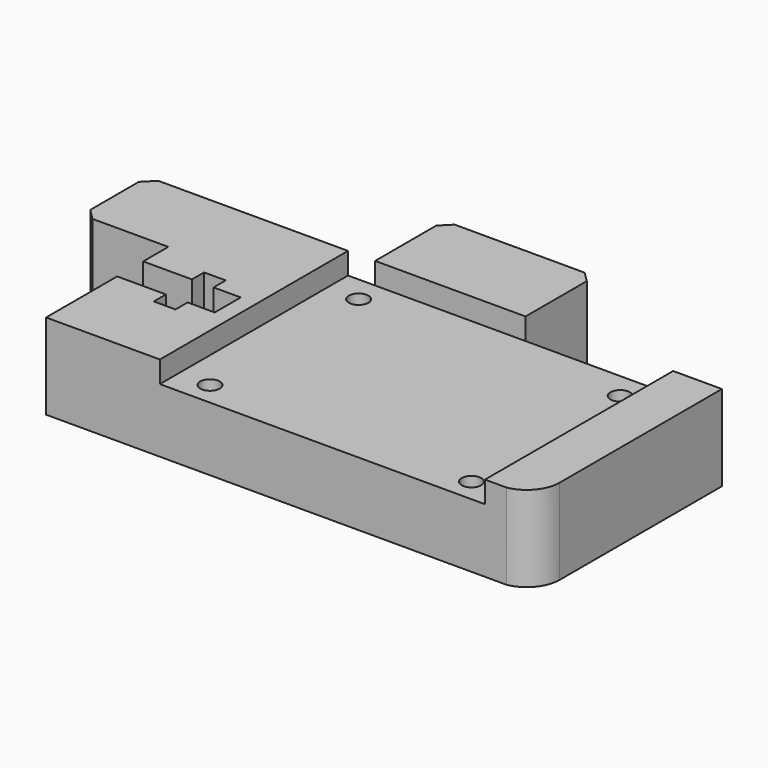
from build123d import *

# Parameters (mm, degrees)
SKETCH002_W  = 30
SKETCH002_H  = 21.7
PAD002_DEPTH = 2
SKETCH001_R  = 0.9
PAD001_DEPTH = 10
PAD_DEPTH    = 7.9
SKETCH005_R  = 0.9
POCKET_DEPTH = 12.5


with BuildPart() as pcb_placement_puncher:
    # Sketch002 → Pad002 (new body)
    with BuildSketch(Plane.XY.offset(7.9)):
        with Locations((7, -5.35)):
            Rectangle(SKETCH002_W, SKETCH002_H)
    extrude(amount=-PAD002_DEPTH)


with BuildPart() as holes_for_pcb_puncher:
    # Sketch001 → Pad001 (new body)
    with BuildSketch(Plane.XY):
        with Locations((-5.09, 3.09)):
            Circle(SKETCH001_R)
        with Locations((19.04, 3.09)):
            Circle(SKETCH001_R)
        with Locations((19.04, -14.06)):
            Circle(SKETCH001_R)
        with Locations((-5.09, -14.06)):
            Circle(SKETCH001_R)
    extrude(amount=PAD001_DEPTH)


with BuildPart() as i3b1_31_with_ir_probe_pcb_holder:
    # Sketch → Pad (new body)
    with BuildSketch(Plane.XY):
        with BuildLine():
            Line((-5.5, 5.5), (-5.5, 12.56))
            Line((-5.5, 12.56), (-4.56, 13.5))
            Line((-4.56, 13.5), (7.44, 13.5))
            Line((7.44, 13.5), (8.38, 12.56))
            Line((8.38, 12.56), (8.38, 5.5))
            Line((8.38, 5.5), (26.5, 5.5))
            Line((26.5, 5.5), (26.5, -13.204915))
            ThreePointArc((24, -16.2), (25.792868, -15.15559), (26.5, -13.204915))
            Line((24, -16.2), (-18.5, -16.2))
            Line((-18.5, -16.2), (-18.5, -8))
            Line((-18.5, -8), (-14, -8))
            Line((-14, -8), (-14, -9.4))
            Line((-14, -9.4), (-12, -9.4))
            Line((-12, -9.4), (-12, -8))
            Line((-12, -8), (-9.5, -8))
            Line((-9.5, -8), (-9.5, -5))
            Line((-9.5, -5), (-12, -5))
            Line((-12, -5), (-12, -3.6))
            Line((-12, -3.6), (-14, -3.6))
            Line((-14, -3.6), (-14, -5))
            Line((-14, -5), (-18.5, -5))
            Line((-18.5, -5), (-18.5, -2.1))
            Line((-18.5, -2.1), (-25.5, -2.1))
            Line((-25.5, -2.1), (-26.5, -1.1))
            Line((-26.5, -1.1), (-26.5, 4.5))
            Line((-26.5, 4.5), (-25.5, 5.5))
            Line((-25.5, 5.5), (-5.5, 5.5))
        make_face()
    extrude(amount=PAD_DEPTH)

    # Cut: cut Holes for PCB Puncher
    add(holes_for_pcb_puncher.part, mode=Mode.SUBTRACT)

    # Cut001: cut PCB Placement Puncher
    add(pcb_placement_puncher.part, mode=Mode.SUBTRACT)

    # Sketch005 → Pocket (cut)
    with BuildSketch(Plane(origin=(0, 5.5, 0), x_dir=(-1, 0, 0), z_dir=(0, 1, 0))):
        with Locations((-16.5, 4)):
            Circle(SKETCH005_R)
    extrude(amount=-POCKET_DEPTH, mode=Mode.SUBTRACT)


solid = i3b1_31_with_ir_probe_pcb_holder.part
